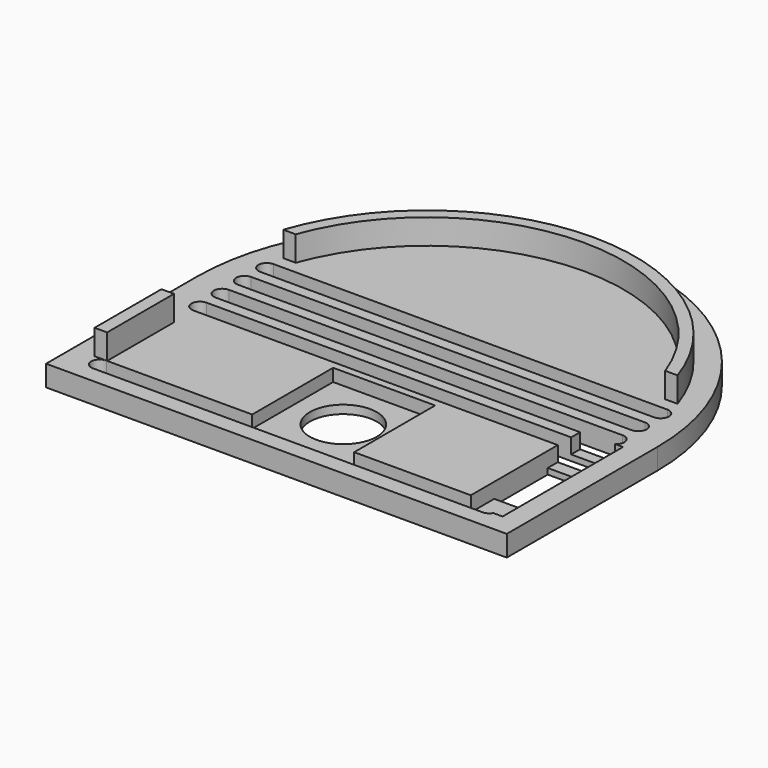
from build123d import *

# Parameters (mm, degrees)
PAD_DEPTH           = 2.5
SKETCH_R            = 4
POCKET_DEPTH        = 2.5
SKETCH001_W         = 5
SKETCH001_H         = 18
POCKET001_DEPTH     = 1.8
SKETCH002_W         = 3
SKETCH002_H         = 8
POCKET002_DEPTH     = 0.7
POCKET003_DEPTH     = 2.501
LINEARPATTERN_COUNT = 4
LINEARPATTERN_PITCH = 3.333333
PAD001_DEPTH        = 3
SKETCH004_W         = 1.5
SKETCH004_H         = 10
PAD002_DEPTH        = 3
POCKET004_DEPTH     = 5.501
SKETCH005_W         = 12.2
SKETCH005_H         = 12.2
POCKET005_DEPTH     = 1.5


with BuildPart() as part:
    # CopySketch → Pad (new body)
    with BuildSketch(Plane.XY):
        with BuildLine():
            Line((55.1, 22.5), (55.1, 0))
            Line((55.1, 0), (0, 0))
            Line((0, 0), (0, 22.500077))
            ThreePointArc((55.1, 22.5), (27.550038, 50.050045), (0, 22.500077))
        make_face()
    extrude(amount=PAD_DEPTH)

    # Sketch (on Face6 of Pad) → Pocket (cut)
    with BuildSketch(Plane.XY.offset(2.5)):
        with Locations((27.55, 10)):
            Circle(SKETCH_R)
    extrude(amount=-POCKET_DEPTH, mode=Mode.SUBTRACT)

    # Sketch001 (on Face5 of Pocket) → Pocket001 (cut)
    with BuildSketch(Plane.XY.offset(2.5)):
        with Locations((50.1, 11.5)):
            Rectangle(SKETCH001_W, SKETCH001_H)
    extrude(amount=-POCKET001_DEPTH, mode=Mode.SUBTRACT)

    # Sketch002 (on Face12 of Pocket001) → Pocket002 (cut)
    with BuildSketch(Plane.XY.offset(0.7)):
        with Locations((49.1, 11.5)):
            Rectangle(SKETCH002_W, SKETCH002_H)
    extrude(amount=-POCKET002_DEPTH, mode=Mode.SUBTRACT)

    # CopyCopySketch003 → Pocket003 (cut, through all)
    with BuildSketch(Plane(origin=(0, 0, 0), x_dir=(1, 0, 0), z_dir=(0, 0, -1))):
        with BuildLine():
            ThreePointArc((4, -17), (3, -18), (4, -19))
            Line((4, -19), (51.093344, -19))
            ThreePointArc((51.093344, -19), (52.093344, -18), (51.093344, -17))
            Line((4, -17), (51.093344, -17))
        make_face()
    pocket003 = extrude(amount=-POCKET003_DEPTH, mode=Mode.SUBTRACT)

    # LinearPattern: Pocket003 ×4
    with Locations(*[(0, i * LINEARPATTERN_PITCH, 0) for i in range(1, LINEARPATTERN_COUNT)]):
        add(pocket003, mode=Mode.SUBTRACT)

    # Sketch003 (on Face5 of LinearPattern) → Pad001 (join)
    with BuildSketch(Plane.XY.offset(2.5)):
        with BuildLine():
            ThreePointArc((49.64638, 30.500045), (27.55, 46.000045), (5.45362, 30.500045))
            Line((3.970136, 30.500045), (5.45362, 30.500045))
            ThreePointArc((51.129864, 30.500045), (27.55, 47.400045), (3.970136, 30.500045))
            Line((49.64638, 30.500045), (51.129864, 30.500045))
        make_face()
    extrude(amount=PAD001_DEPTH)

    # Sketch004 (on Face5 of Pad001) → Pad002 (join)
    with BuildSketch(Plane.XY.offset(2.5)):
        with Locations((3.35, 9)):
            Rectangle(SKETCH004_W, SKETCH004_H)
    extrude(amount=PAD002_DEPTH)

    # CopySketch003 → Pocket004 (cut, through all)
    with BuildSketch(Plane(origin=(0, 0, 0), x_dir=(1, 0, 0), z_dir=(0, 0, -1))):
        with BuildLine():
            ThreePointArc((4, -2), (3, -3), (4, -4))
            Line((4, -4), (50.619259, -4))
            ThreePointArc((50.619259, -4), (51.619259, -3), (50.619259, -2))
            Line((4, -2), (50.619259, -2))
        make_face()
    extrude(amount=-POCKET004_DEPTH, mode=Mode.SUBTRACT)

    # Sketch005 (on Face5 of Pocket004) → Pocket005 (cut)
    with BuildSketch(Plane.XY.offset(2.5)):
        with Locations((27.55, 10)):
            Rectangle(SKETCH005_W, SKETCH005_H)
    extrude(amount=-POCKET005_DEPTH, mode=Mode.SUBTRACT)


solid = part.part
